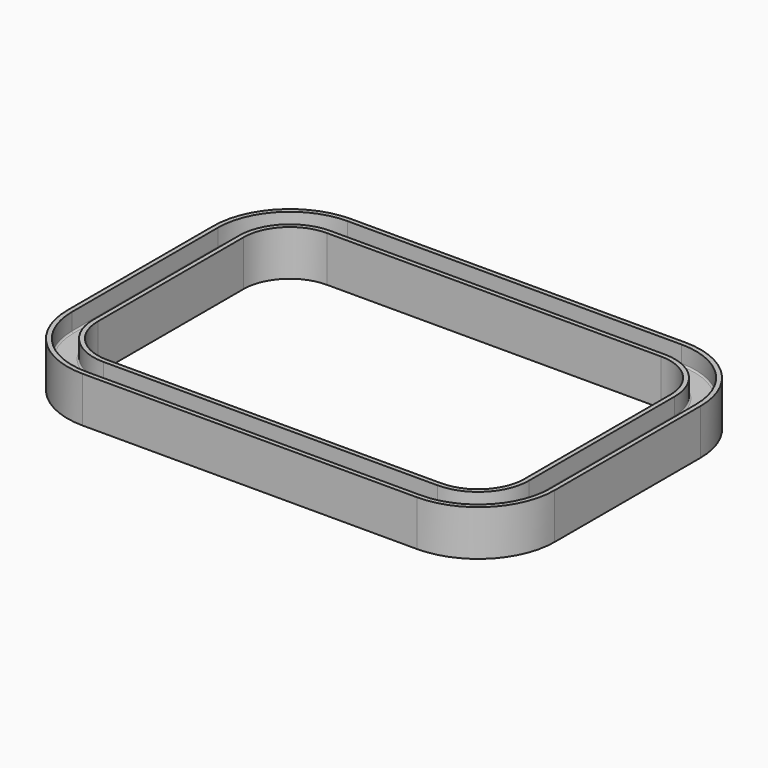
from build123d import *


with BuildPart() as f2:
    # F2: sweep along a path in F0
    with BuildLine(Plane.XY) as f2_path:
        Line((55, 50), (-55, 50))
        ThreePointArc((-55, 50), (-69.142136, 44.142136), (-75, 30))
        Line((-75, 30), (-75, -30))
        ThreePointArc((-75, -30), (-69.142136, -44.142136), (-55, -50))
        Line((-55, -50), (55, -50))
        ThreePointArc((55, -50), (69.142136, -44.142136), (75, -30))
        Line((75, -30), (75, 30))
        ThreePointArc((75, 30), (69.142136, 44.142136), (55, 50))
    # F1 (on Right) → F2 (sweep)
    with BuildSketch(Plane.YZ):
        with BuildLine():
            Line((55.19626, 0), (55.19626, 7.5))
            Line((55.19626, 7.5), (53.69626, 7.5))
            Line((53.69626, 7.5), (53.69626, 2))
            ThreePointArc((53.69626, 2), (53.549814, 1.646447), (53.19626, 1.5))
            Line((53.19626, 1.5), (47.19626, 1.5))
            ThreePointArc((47.19626, 1.5), (46.842707, 1.646447), (46.69626, 2))
            Line((46.69626, 2), (46.69626, 7.5))
            Line((46.69626, 7.5), (45.19626, 7.5))
            Line((45.19626, 7.5), (45.19626, -7.5))
            Line((45.19626, -7.5), (46.69626, -7.5))
            Line((46.69626, -7.5), (46.69626, -2))
            ThreePointArc((46.69626, -2), (46.842707, -1.646447), (47.19626, -1.5))
            Line((47.19626, -1.5), (53.19626, -1.5))
            ThreePointArc((53.19626, -1.5), (53.549814, -1.646447), (53.69626, -2))
            Line((53.69626, -2), (53.69626, -7.5))
            Line((53.69626, -7.5), (55.19626, -7.5))
            Line((55.19626, -7.5), (55.19626, 0))
        make_face()
    sweep(path=f2_path.line)


solid = f2.part
